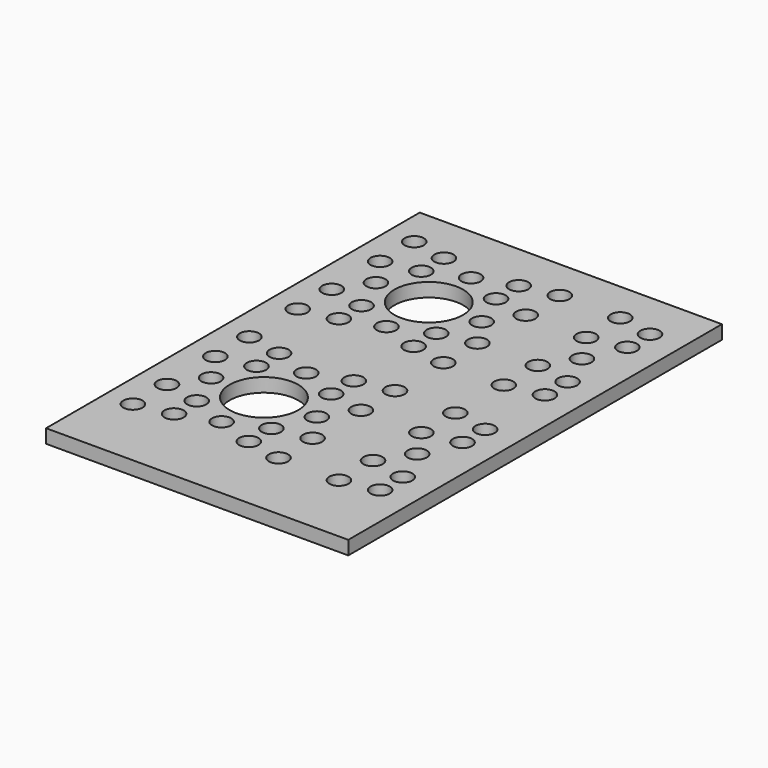
from build123d import *

# Parameters (mm, degrees)
F0_W     = 37.084
F0_H     = 86.36
F0_R     = 1.778
F0_R_2   = 6.35
F0_W_2   = 18.796
F1_DEPTH = 2.54


with BuildPart() as f1:
    # F0 (on Top) → F1 (new body)
    with BuildSketch(Plane.XY):
        with Locations((18.542, 43.18)):
            Rectangle(F0_W, F0_H)
        with Locations((5.08, 13.716)):
            Circle(F0_R, mode=Mode.SUBTRACT)
        with Locations((11.6332, 15.0368)):
            Circle(F0_R, mode=Mode.SUBTRACT)
        with Locations((11.6332, 20.2692)):
            Circle(F0_R, mode=Mode.SUBTRACT)
        with Locations((18.542, 17.399)):
            Circle(F0_R, mode=Mode.SUBTRACT)
        with Locations((25.4508, 15.0368)):
            Circle(F0_R, mode=Mode.SUBTRACT)
        with Locations((25.4508, 20.2692)):
            Circle(F0_R, mode=Mode.SUBTRACT)
        with Locations((5.08, 21.59)):
            Circle(F0_R, mode=Mode.SUBTRACT)
        with Locations((8.763, 27.178)):
            Circle(F0_R, mode=Mode.SUBTRACT)
        with Locations((5.08, 32.766)):
            Circle(F0_R, mode=Mode.SUBTRACT)
        with Locations((5.08, 40.64)):
            Circle(F0_R, mode=Mode.SUBTRACT)
        with Locations((11.6332, 34.0868)):
            Circle(F0_R, mode=Mode.SUBTRACT)
        with Locations((11.6332, 39.3192)):
            Circle(F0_R, mode=Mode.SUBTRACT)
        with Locations((18.542, 27.178)):
            Circle(F0_R_2, mode=Mode.SUBTRACT)
        with Locations((18.542, 36.957)):
            Circle(F0_R, mode=Mode.SUBTRACT)
        with Locations((25.4508, 34.0868)):
            Circle(F0_R, mode=Mode.SUBTRACT)
        with Locations((25.4508, 39.3192)):
            Circle(F0_R, mode=Mode.SUBTRACT)
        with Locations((32.004, 13.716)):
            Circle(F0_R, mode=Mode.SUBTRACT)
        with Locations((32.004, 21.59)):
            Circle(F0_R, mode=Mode.SUBTRACT)
        with Locations((28.321, 27.178)):
            Circle(F0_R, mode=Mode.SUBTRACT)
        with Locations((32.004, 32.766)):
            Circle(F0_R, mode=Mode.SUBTRACT)
        with Locations((32.004, 40.64)):
            Circle(F0_R, mode=Mode.SUBTRACT)
        with Locations((5.08, 51.816)):
            Circle(F0_R, mode=Mode.SUBTRACT)
        with Locations((11.6332, 53.1368)):
            Circle(F0_R, mode=Mode.SUBTRACT)
        with Locations((5.08, 59.69)):
            Circle(F0_R, mode=Mode.SUBTRACT)
        with Locations((11.6332, 58.3692)):
            Circle(F0_R, mode=Mode.SUBTRACT)
        with Locations((25.4508, 53.1368)):
            Circle(F0_R, mode=Mode.SUBTRACT)
        with Locations((18.542, 55.499)):
            Circle(F0_R, mode=Mode.SUBTRACT)
        with Locations((25.4508, 58.3692)):
            Circle(F0_R, mode=Mode.SUBTRACT)
        with Locations((5.08, 70.866)):
            Circle(F0_R, mode=Mode.SUBTRACT)
        with Locations((8.763, 65.278)):
            Circle(F0_R, mode=Mode.SUBTRACT)
        with Locations((11.6332, 72.1868)):
            Circle(F0_R, mode=Mode.SUBTRACT)
        with Locations((5.08, 78.74)):
            Circle(F0_R, mode=Mode.SUBTRACT)
        with Locations((11.6332, 77.4192)):
            Circle(F0_R, mode=Mode.SUBTRACT)
        with Locations((18.542, 65.278)):
            Circle(F0_R_2, mode=Mode.SUBTRACT)
        with Locations((18.542, 75.057)):
            Circle(F0_R, mode=Mode.SUBTRACT)
        with Locations((25.4508, 72.1868)):
            Circle(F0_R, mode=Mode.SUBTRACT)
        with Locations((25.4508, 77.4192)):
            Circle(F0_R, mode=Mode.SUBTRACT)
        with Locations((32.004, 51.816)):
            Circle(F0_R, mode=Mode.SUBTRACT)
        with Locations((32.004, 59.69)):
            Circle(F0_R, mode=Mode.SUBTRACT)
        with Locations((28.321, 65.278)):
            Circle(F0_R, mode=Mode.SUBTRACT)
        with Locations((32.004, 70.866)):
            Circle(F0_R, mode=Mode.SUBTRACT)
        with Locations((32.004, 78.74)):
            Circle(F0_R, mode=Mode.SUBTRACT)
        with Locations((46.482, 43.18)):
            Rectangle(F0_W_2, F0_H)
        with Locations((43.18, 13.716)):
            Circle(F0_R, mode=Mode.SUBTRACT)
        with Locations((49.7332, 15.0368)):
            Circle(F0_R, mode=Mode.SUBTRACT)
        with Locations((49.7332, 20.2692)):
            Circle(F0_R, mode=Mode.SUBTRACT)
        with Locations((43.18, 21.59)):
            Circle(F0_R, mode=Mode.SUBTRACT)
        with Locations((46.863, 27.178)):
            Circle(F0_R, mode=Mode.SUBTRACT)
        with Locations((43.18, 32.766)):
            Circle(F0_R, mode=Mode.SUBTRACT)
        with Locations((43.18, 40.64)):
            Circle(F0_R, mode=Mode.SUBTRACT)
        with Locations((49.7332, 34.0868)):
            Circle(F0_R, mode=Mode.SUBTRACT)
        with Locations((49.7332, 39.3192)):
            Circle(F0_R, mode=Mode.SUBTRACT)
        with Locations((43.18, 51.816)):
            Circle(F0_R, mode=Mode.SUBTRACT)
        with Locations((49.7332, 53.1368)):
            Circle(F0_R, mode=Mode.SUBTRACT)
        with Locations((43.18, 59.69)):
            Circle(F0_R, mode=Mode.SUBTRACT)
        with Locations((49.7332, 58.3692)):
            Circle(F0_R, mode=Mode.SUBTRACT)
        with Locations((46.863, 65.278)):
            Circle(F0_R, mode=Mode.SUBTRACT)
        with Locations((43.18, 70.866)):
            Circle(F0_R, mode=Mode.SUBTRACT)
        with Locations((49.7332, 72.1868)):
            Circle(F0_R, mode=Mode.SUBTRACT)
        with Locations((43.18, 78.74)):
            Circle(F0_R, mode=Mode.SUBTRACT)
        with Locations((49.7332, 77.4192)):
            Circle(F0_R, mode=Mode.SUBTRACT)
    extrude(amount=F1_DEPTH)


solid = f1.part
